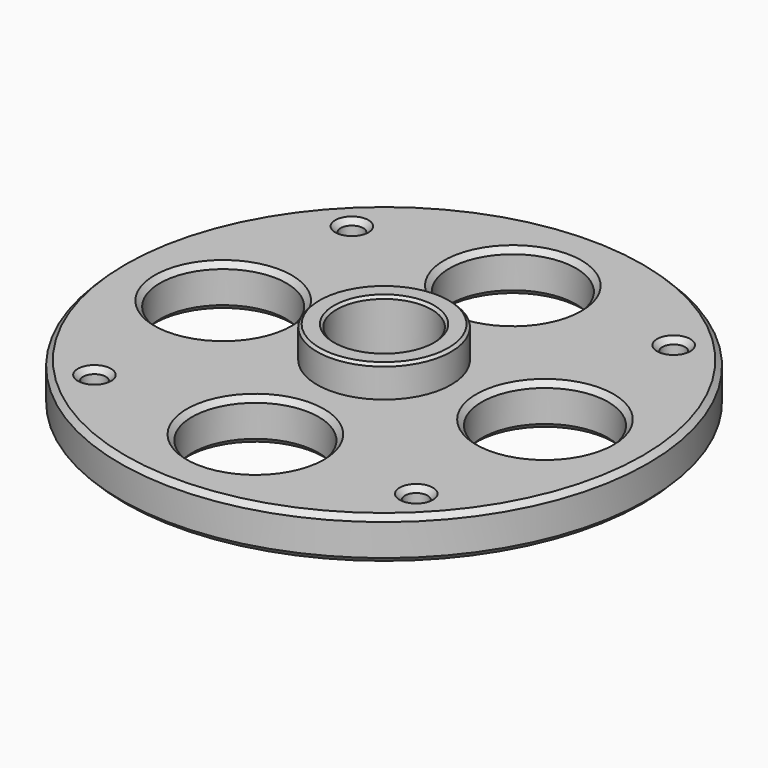
from build123d import *

# Parameters (mm, degrees)
SKETCH002_R     = 50
SKETCH002_R_2   = 2.15
SKETCH002_R_3   = 9
SKETCH002_R_4   = 12
PAD001_DEPTH    = 8
CHAMFER001_SIZE = 1
SKETCH003_R     = 12.7
SKETCH003_R_2   = 9
PAD002_DEPTH    = 8
CHAMFER002_SIZE = 0.5


with BuildPart() as part:
    # Sketch002 → Pad001 (new body)
    with BuildSketch(Plane.XY):
        Circle(SKETCH002_R)
        with Locations((-30.479838, 30.479838)):
            Circle(SKETCH002_R_2, mode=Mode.SUBTRACT)
        with Locations((30.479838, 30.479838)):
            Circle(SKETCH002_R_2, mode=Mode.SUBTRACT)
        with Locations((30.479838, -30.479838)):
            Circle(SKETCH002_R_2, mode=Mode.SUBTRACT)
        with Locations((-30.479838, -30.479838)):
            Circle(SKETCH002_R_2, mode=Mode.SUBTRACT)
        Circle(SKETCH002_R_3, mode=Mode.SUBTRACT)
        with Locations((-30.479838, 0)):
            Circle(SKETCH002_R_4, mode=Mode.SUBTRACT)
        with Locations((30.479838, 0)):
            Circle(SKETCH002_R_4, mode=Mode.SUBTRACT)
        with Locations((0, -30.479838)):
            Circle(SKETCH002_R_4, mode=Mode.SUBTRACT)
        with Locations((0, 30.479838)):
            Circle(SKETCH002_R_4, mode=Mode.SUBTRACT)
    extrude(amount=PAD001_DEPTH)

    # Chamfer001
    chamfer001_edges = [part.edges().sort_by_distance(p)[0] for p in [
        (-50, 0, 8),
        (-42.479838, 0, 8),
        (-12, 30.479838, 8),
        (18.479838, 0, 8),
        (-12, -30.479838, 8),
        (-9, 0, 8),
        (-32.629838, -30.479838, 8),
        (28.329838, -30.479838, 8),
        (28.329838, 30.479838, 8),
        (-32.629838, 30.479838, 8),
        (-50, 0, 0),
        (-42.479838, 0, 0),
        (-12, 30.479838, 0),
        (18.479838, 0, 0),
        (-12, -30.479838, 0),
        (-9, 0, 0),
        (-32.629838, -30.479838, 0),
        (28.329838, -30.479838, 0),
        (28.329838, 30.479838, 0),
        (-32.629838, 30.479838, 0),
    ]]
    chamfer(chamfer001_edges, length=CHAMFER001_SIZE)

    # Sketch003 (on Face12 of Pad001) → Pad002 (join)
    with BuildSketch(Plane.XY.offset(6)):
        Circle(SKETCH003_R)
        Circle(SKETCH003_R_2, mode=Mode.SUBTRACT)
    extrude(amount=PAD002_DEPTH)

    # Chamfer002
    chamfer002_edges = [part.edges().sort_by_distance(p)[0] for p in [
        (-12.7, 0, 14),
        (-9, 0, 14),
    ]]
    chamfer(chamfer002_edges, length=CHAMFER002_SIZE)


solid = part.part
